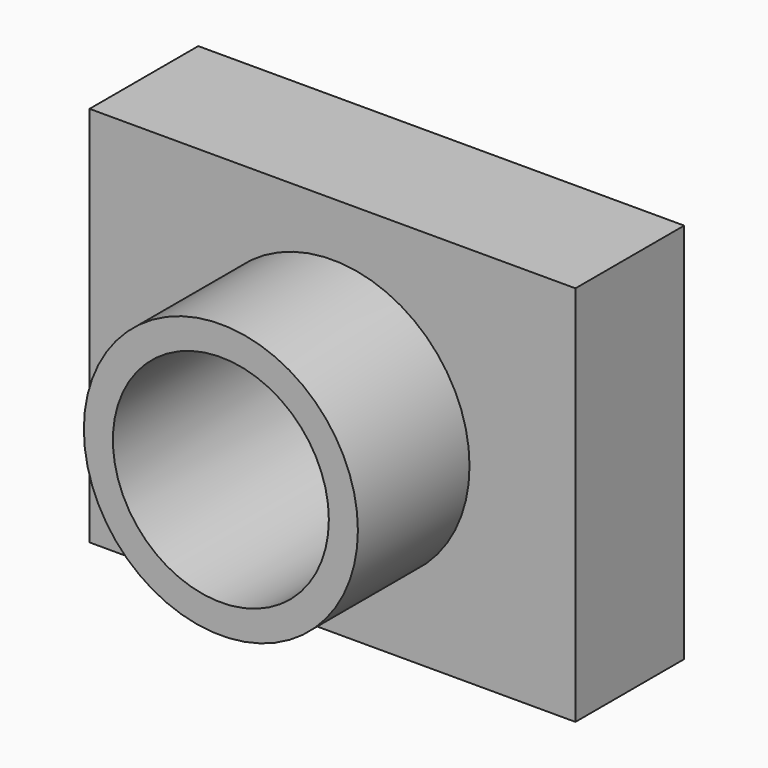
from build123d import *

# Parameters (mm, degrees)
F0_W     = 101.725624
F0_H     = 79.91349
F1_DEPTH = 28.448
F2_R     = 28.687359
F3_DEPTH = 57.658
F4_R     = 22.607538
F5_DEPTH = 70.866


with BuildPart() as f1:
    # F0 (on Front) → F1 (new body)
    with BuildSketch(Plane.XZ):
        Rectangle(F0_W, F0_H)
    extrude(amount=F1_DEPTH)

    # F2 (on Front) → F3 (join)
    with BuildSketch(Plane.XZ):
        Circle(F2_R)
    extrude(amount=F3_DEPTH)

    # F4 (on Front) → F5 (cut)
    with BuildSketch(Plane.XZ):
        Circle(F4_R)
    extrude(amount=F5_DEPTH, mode=Mode.SUBTRACT)


solid = f1.part
